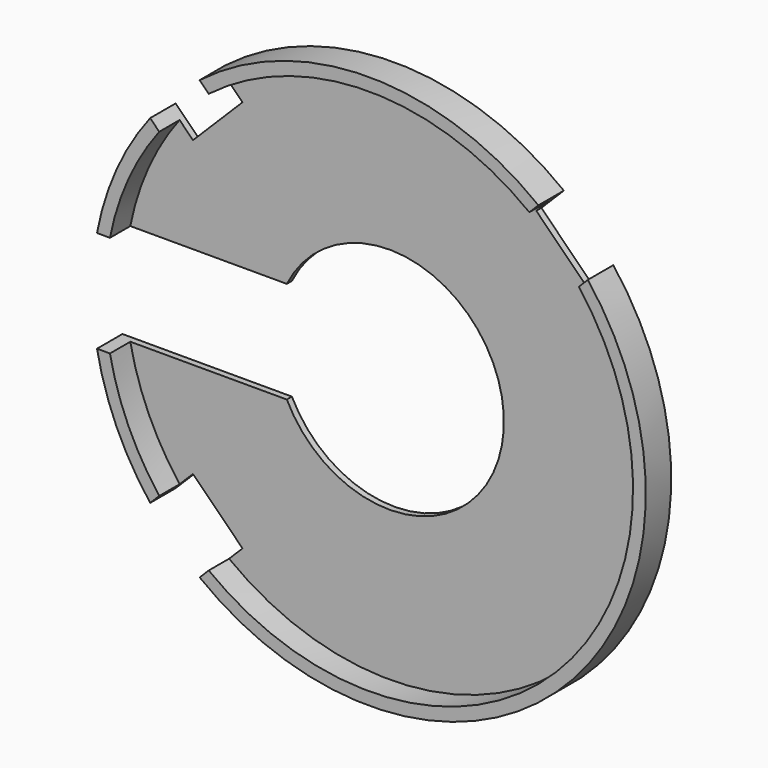
from build123d import *

# Parameters (mm, degrees)
F1_DEPTH = 1
F3_DEPTH = 5
F5_DEPTH = 5


with BuildPart() as f1:
    # F0 (on Front) → F1 (new body)
    with BuildSketch(Plane.XZ):
        with BuildLine():
            Line((-16.124515, -8), (-40.721616, -8))
            ThreePointArc((-40.721616, -8), (41.5, 0), (-40.721616, 8))
            Line((-40.721616, 8), (-16.124515, 8))
            ThreePointArc((-16.124515, 8), (18, 0), (-16.124515, -8))
        make_face()
    extrude(amount=F1_DEPTH)

    # F2 (on face) → F3 (join)
    with BuildSketch(Plane(origin=(0, 0, 0), x_dir=(-1, 0, 0), z_dir=(0, 1, 0))):
        with BuildLine():
            Line((40.721616, 8), (42.75804, 8))
            ThreePointArc((42.75804, 8), (-43.5, 0), (42.75804, -8))
            Line((42.75804, -8), (40.721616, -8))
            ThreePointArc((40.721616, -8), (-41.5, 0), (40.721616, 8))
        make_face()
    extrude(amount=-F3_DEPTH)

    # F4 (on face) → F5 (cut, through all)
    with BuildSketch(Plane(origin=(0, 0, 0), x_dir=(-1, 0, 0), z_dir=(0, 1, 0))):
        with BuildLine():
            Line((30.865846, -23.087671), (23.087671, -30.865846))
            Line((23.087671, -30.865846), (26.623205, -34.40138))
            ThreePointArc((26.623205, -34.40138), (30.759145, -30.759145), (34.40138, -26.623205))
            Line((34.40138, -26.623205), (30.865846, -23.087671))
        make_face()
        with BuildLine():
            Line((26.623205, 34.40138), (23.087671, 30.865846))
            Line((23.087671, 30.865846), (30.865846, 23.087671))
            Line((30.865846, 23.087671), (34.40138, 26.623205))
            ThreePointArc((34.40138, 26.623205), (30.759145, 30.759145), (26.623205, 34.40138))
        make_face()
        with BuildLine():
            Line((-34.40138, 26.623205), (-30.865846, 23.087671))
            Line((-30.865846, 23.087671), (-23.087671, 30.865846))
            Line((-23.087671, 30.865846), (-26.623205, 34.40138))
            ThreePointArc((-26.623205, 34.40138), (-30.759145, 30.759145), (-34.40138, 26.623205))
        make_face()
    extrude(amount=-F5_DEPTH, mode=Mode.SUBTRACT)


solid = f1.part
